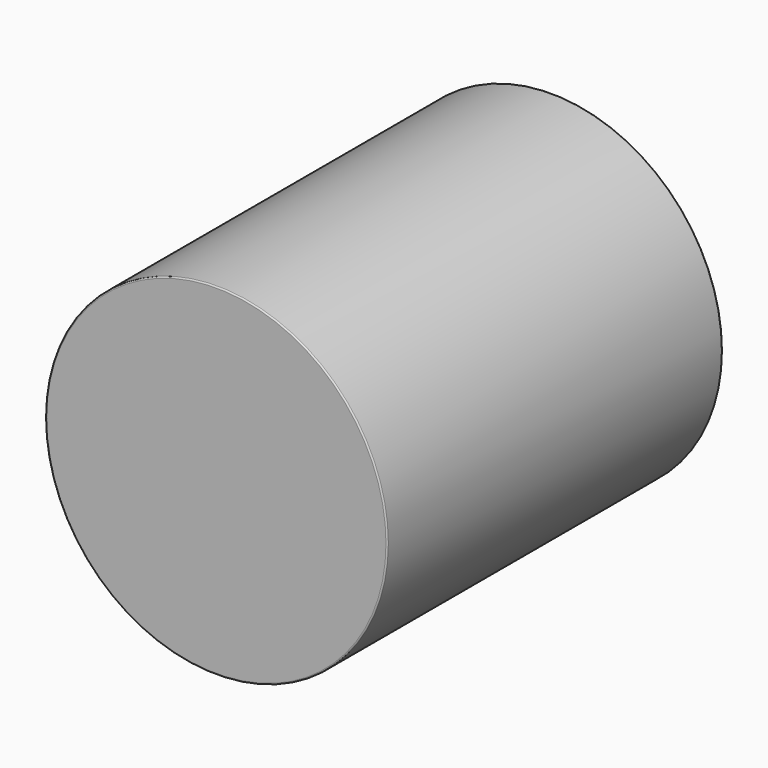
from build123d import *


with BuildPart() as f1:
    # F0 (on Top) → F1 (revolve)
    with BuildSketch(Plane.XY):
        with BuildLine():
            Line((0, -25.1593), (0, -20))
            Line((0, -20), (-36.3407, -20))
            ThreePointArc((-36.3407, -20), (-38.815574, -18.974874), (-39.8407, -16.5))
            Line((-39.8407, -16.5), (-39.8407, 84.8093))
            ThreePointArc((-39.8407, 84.8093), (-39.943213, 85.056787), (-40.1907, 85.1593))
            Line((-40.1907, 85.1593), (-44.65, 85.1593))
            ThreePointArc((-44.65, 85.1593), (-44.897487, 85.056787), (-45, 84.8093))
            Line((-45, 84.8093), (-45, -24.8093))
            ThreePointArc((-45, -24.8093), (-44.897487, -25.056787), (-44.65, -25.1593))
            Line((-44.65, -25.1593), (0, -25.1593))
        make_face()
    revolve(axis=Axis((0, -25.1593, 0), (0, -1, 0)))


solid = f1.part
